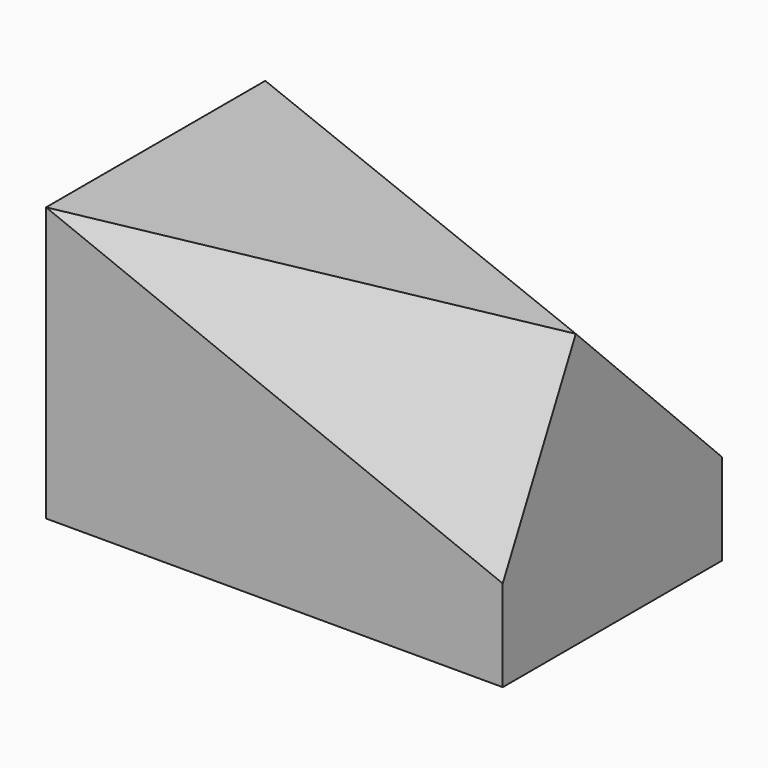
from build123d import *

# Parameters (mm, degrees)
F0_W     = 50
F0_H     = 30
F1_DEPTH = 30
F6_DEPTH = 8.8055090633
F8_DEPTH = 13.6092763488


with BuildPart() as f1:
    # F0 (on Top) → F1 (new body)
    with BuildSketch(Plane.XY):
        with Locations((25, 15)):
            Rectangle(F0_W, F0_H)
    extrude(amount=F1_DEPTH)

    # F5 (on 3pt) → F6 (cut, through all)
    with BuildSketch(Plane(origin=(2.3255813953, -11.6279069767, 5.8139534884), x_dir=(0.9843740387, 0.1574998462, -0.0787499231), z_dir=(0.1760901813, -0.8804509063, 0.4402254532))):
        Polygon((48.4312027039, 8.94427191), (48.4312027039, 31.304951685), (-2.3624976929, 26.83281573), align=None)
    extrude(amount=F6_DEPTH, mode=Mode.SUBTRACT)

    # F7 (on 3pt) → F8 (cut, through all)
    with BuildSketch(Plane(origin=(11.1111111111, 27.7777777778, 27.7777777778), x_dir=(-0.9622504486, 0.1924500897, 0.1924500897), z_dir=(0.272165527, 0.6804138174, 0.6804138174))):
        Polygon((-40.4145188433, -14.1421356237), (11.5470053838, 0), (-40.4145188433, 14.1421356237), align=None)
    extrude(amount=F8_DEPTH, mode=Mode.SUBTRACT)


solid = f1.part
